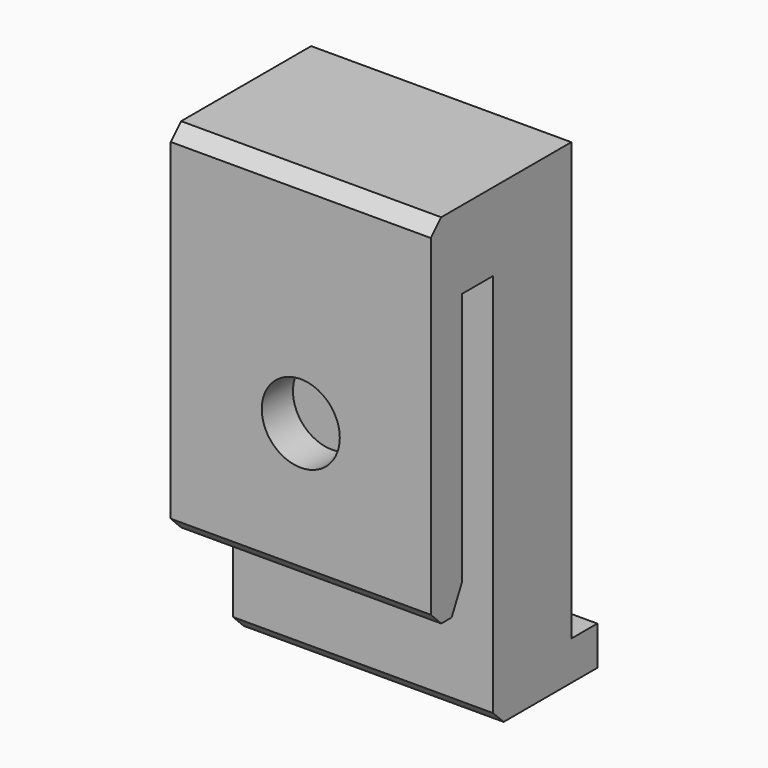
from build123d import *

# Parameters (mm, degrees)
CYLINDER017_R     = 1.7
CYLINDER017_DEPTH = 20
CYLINDER018_R     = 3
CYLINDER018_DEPTH = 20
BOX031_W          = 20
BOX031_H          = 6
BOX031_DEPTH      = 6
BOX032_W          = 20
BOX032_H          = 7.5
BOX032_DEPTH      = 36.6
BOX030_W          = 20
BOX030_H          = 10
BOX030_DEPTH      = 3
BOX029_W          = 20
BOX029_H          = 3
BOX029_DEPTH      = 27.5
CHAMFER024_SIZE2  = 1
CHAMFER024_SIZE   = 2
CHAMFER025_SIZE   = 1


with BuildPart() as cylinder017:
    # Cylinder017 → Cylinder017 (new body)
    with BuildSketch(Plane(origin=(10, 12, 16.8), x_dir=(1, 0, 0), z_dir=(0, -1, 0))):
        Circle(CYLINDER017_R)
    extrude(amount=CYLINDER017_DEPTH)


with BuildPart() as cylinder018:
    # Cylinder018 → Cylinder018 (new body)
    with BuildSketch(Plane(origin=(10, 5, 16.8), x_dir=(1, 0, 0), z_dir=(0, -1, 0))):
        Circle(CYLINDER018_R)
    extrude(amount=CYLINDER018_DEPTH)


with BuildPart() as cube031:
    # Box031 → Box031 (new body)
    with BuildSketch(Plane(origin=(0, -6, 27.6), x_dir=(1, 0, 0), z_dir=(0, 0, 1))):
        with Locations((10, 3)):
            Rectangle(BOX031_W, BOX031_H)
    extrude(amount=BOX031_DEPTH)


with BuildPart() as cube032:
    # Box032 → Box032 (new body)
    with BuildSketch(Plane.XY.offset(-3)):
        with Locations((10, 3.75)):
            Rectangle(BOX032_W, BOX032_H)
    extrude(amount=BOX032_DEPTH)


with BuildPart() as cube030:
    # Box030 → Box030 (new body)
    with BuildSketch(Plane.XY.offset(-3)):
        with Locations((10, 5)):
            Rectangle(BOX030_W, BOX030_H)
    extrude(amount=BOX030_DEPTH)


with BuildPart() as clip_side_top_center:
    # Box029 → Box029 (new body)
    with BuildSketch(Plane(origin=(0, -6, 6.1), x_dir=(1, 0, 0), z_dir=(0, 0, 1))):
        with Locations((10, 1.5)):
            Rectangle(BOX029_W, BOX029_H)
    extrude(amount=BOX029_DEPTH)

    # Fusion012: union Cube031, Cube032, Cube030
    add(cube031.part)
    add(cube032.part)
    add(cube030.part)

    # Chamfer024
    chamfer024_edges = [clip_side_top_center.edges().sort_by_distance(p)[0] for p in [
        (10, -3, 6.1),
    ]]
    chamfer024_side = clip_side_top_center.faces().sort_by_distance((10, -3, 16.85))[0]
    chamfer(chamfer024_edges, length=CHAMFER024_SIZE, length2=CHAMFER024_SIZE2, reference=chamfer024_side)

    # Chamfer025
    chamfer025_edges = [clip_side_top_center.edges().sort_by_distance(p)[0] for p in [
        (10, -6, 6.1),
        (10, -6, 33.6),
        (10, 0, -3),
    ]]
    chamfer(chamfer025_edges, length=CHAMFER025_SIZE)

    # Cut014: cut Cylinder018
    add(cylinder018.part, mode=Mode.SUBTRACT)

    # Cut015: cut Cylinder017
    add(cylinder017.part, mode=Mode.SUBTRACT)


solid = clip_side_top_center.part
